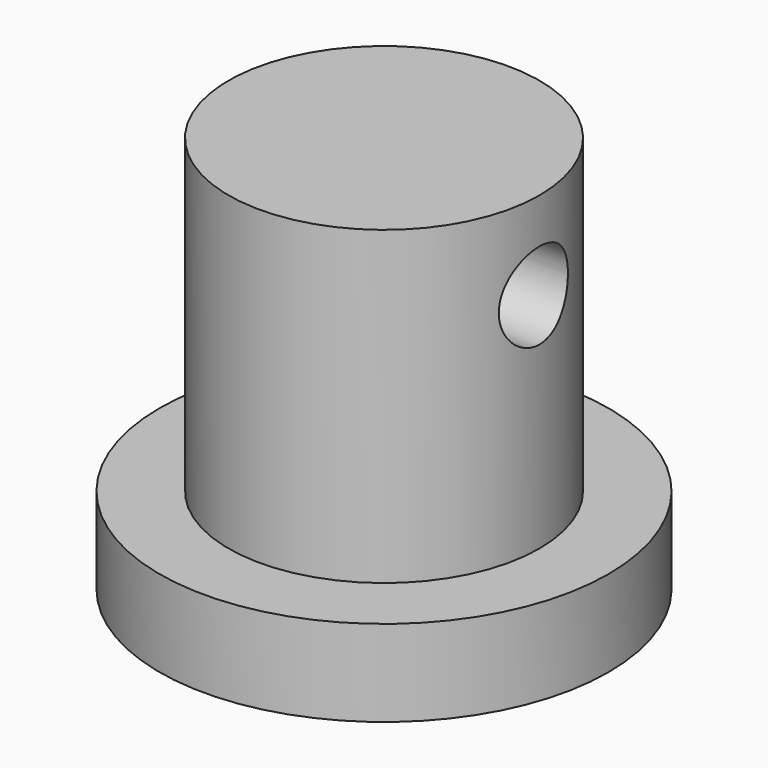
from build123d import *

# Parameters (mm, degrees)
F0_R          = 8.255
F1_DEPTH      = 3.175
F2_R          = 5.715
F3_DEPTH      = 11.43
F4_R          = 1.5875
F5_DEPTH      = 8.256
F5_DEPTH_BACK = 25.4


with BuildPart() as f1:
    # F0 (on Top) → F1 (new body)
    with BuildSketch(Plane.XY):
        Circle(F0_R)
    extrude(amount=F1_DEPTH)

    # F2 (on face) → F3 (join)
    with BuildSketch(Plane.XY.offset(3.175)):
        Circle(F2_R)
    extrude(amount=F3_DEPTH)

    # F4 (on Right) → F5 (cut, two sides)
    with BuildSketch(Plane.YZ) as f5_sk:
        with Locations((0, 11.3665)):
            Circle(F4_R)
    extrude(amount=-F5_DEPTH, mode=Mode.SUBTRACT)
    extrude(f5_sk.sketch, amount=F5_DEPTH_BACK, mode=Mode.SUBTRACT)


solid = f1.part
